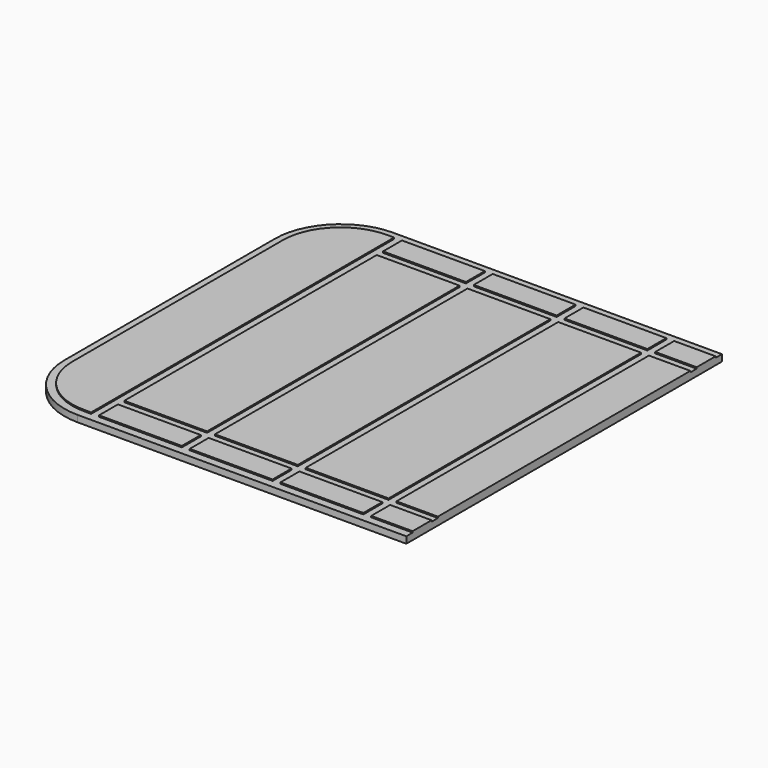
from build123d import *

# Parameters (mm, degrees)
F1_DEPTH = 10
F2_W     = 63
F2_H     = 36
F2_H_2   = 480
F2_W_2   = 126
F3_DEPTH = 2


with BuildPart() as f1:
    # F0 (on Top) → F1 (new body)
    with BuildSketch(Plane.XY):
        with BuildLine():
            Line((300, 288), (300, 300))
            Line((300, 300), (-200, 300))
            ThreePointArc((-200, 300), (-270.710678, 270.710678), (-300, 200))
            Line((-300, 200), (-300, -200))
            ThreePointArc((-300, -200), (-270.710678, -270.710678), (-200, -300))
            Line((-200, -300), (300, -300))
            Line((300, -300), (300, -288))
            Line((300, -288), (-200, -288))
            ThreePointArc((-200, -288), (-262.225397, -262.225397), (-288, -200))
            Line((-288, -200), (-288, 200))
            ThreePointArc((-288, 200), (-262.225397, 262.225397), (-200, 288))
            Line((-200, 288), (300, 288))
        make_face()
        with BuildLine():
            Line((300, -288), (300, 288))
            Line((300, 288), (-200, 288))
            ThreePointArc((-200, 288), (-262.225397, 262.225397), (-288, 200))
            Line((-288, 200), (-288, -200))
            ThreePointArc((-288, -200), (-262.225397, -262.225397), (-200, -288))
            Line((-200, -288), (300, -288))
        make_face()
    extrude(amount=-F1_DEPTH)

    # F2 (on Top) → F3 (join)
    with BuildSketch(Plane.XY):
        with Locations((268.5, -270)):
            Rectangle(F2_W, F2_H)
        with Locations((268.5, 0)):
            Rectangle(F2_W, F2_H_2)
        with Locations((268.5, 270)):
            Rectangle(F2_W, F2_H)
        with BuildLine():
            ThreePointArc((-288, -200), (-262.225397, -262.225397), (-200, -288))
            Line((-200, -288), (-189, -288))
            Line((-189, -288), (-189, 252))
            Line((-189, 252), (-189, 288))
            Line((-189, 288), (-200, 288))
            ThreePointArc((-200, 288), (-262.225397, 262.225397), (-288, 200))
            Line((-288, 200), (-288, -200))
        make_face()
        with Locations((-114, 270)):
            Rectangle(F2_W_2, F2_H)
        with Locations((24, 270)):
            Rectangle(F2_W_2, F2_H)
        with Locations((162, 270)):
            Rectangle(F2_W_2, F2_H)
        with Locations((-114, -270)):
            Rectangle(F2_W_2, F2_H)
        with Locations((-114, 0)):
            Rectangle(F2_W_2, F2_H_2)
        with Locations((24, 0)):
            Rectangle(F2_W_2, F2_H_2)
        with Locations((162, -270)):
            Rectangle(F2_W_2, F2_H)
        with Locations((162, 0)):
            Rectangle(F2_W_2, F2_H_2)
        with Locations((24, -270)):
            Rectangle(F2_W_2, F2_H)
    extrude(amount=F3_DEPTH)


solid = f1.part
